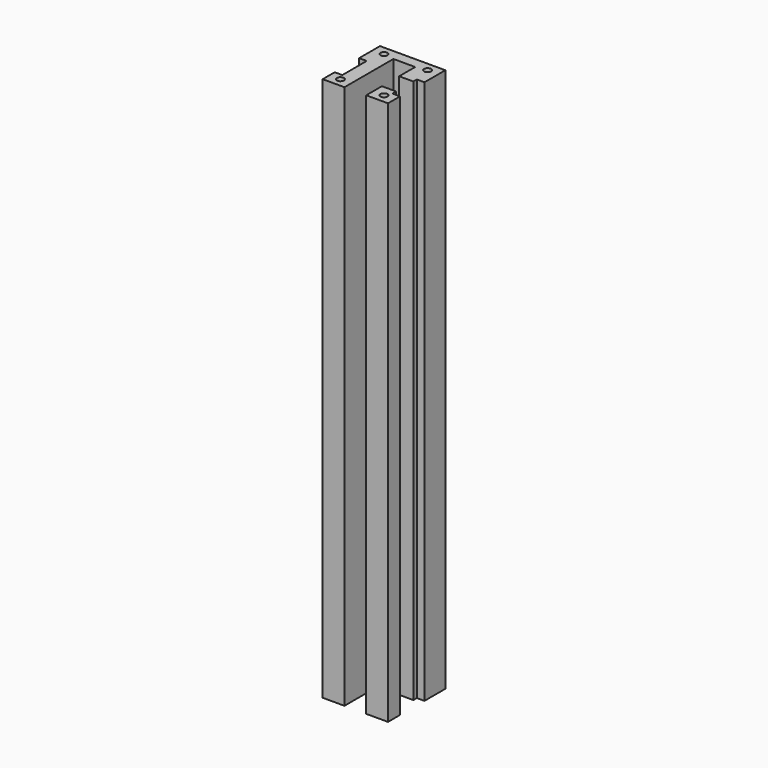
from build123d import *

# Parameters (mm, degrees)
F1_DEPTH   = 250
F3_D       = 3.2
F3_DEPTH   = 20
F3_TIP     = 0.9613769904
F3_2_D     = 3.2
F3_2_DEPTH = 20
F3_2_TIP   = 0.9613769904


with BuildPart() as f1:
    # F0 (on Top) → F1 (new body)
    with BuildSketch(Plane.XY):
        Polygon((5, 2.45), (11.5, 2.45), (11.5, 4.45), (15, 4.45), (15, 16.45), (-15, 16.45), (-15, 4.45), (-11.5, 4.45), (-11.5, -9.55), (-15, -9.55), (-15, -16.45), (-5, -16.45), (-5, 11.65), (5, 11.65), align=None)
    extrude(amount=F1_DEPTH)

    # F3
    with Locations(Plane.XY.offset(250)):
        with Locations((-10, 12.5), (10, 12.5), (10, -12.5), (-10, -12.5)):
            Hole(F3_D / 2, depth=F3_DEPTH)
            with Locations((0, 0, -(F3_DEPTH + F3_TIP / 2))):  # 118° drill point
                Cone(0, F3_D / 2, F3_TIP, mode=Mode.SUBTRACT)


with BuildPart() as f1b:
    # F0 (on Top) → F1, piece 2 (new body)
    with BuildSketch(Plane.XY):
        Polygon((11.5, -7.45), (5, -7.45), (5, -16.45), (15, -16.45), (15, -9.55), (11.5, -9.55), align=None)
    extrude(amount=F1_DEPTH)

    # F3#2
    with Locations(Plane.XY.offset(250)):
        with Locations((-10, 12.5), (10, 12.5), (10, -12.5), (-10, -12.5)):
            Hole(F3_2_D / 2, depth=F3_2_DEPTH)
            with Locations((0, 0, -(F3_2_DEPTH + F3_2_TIP / 2))):  # 118° drill point
                Cone(0, F3_2_D / 2, F3_2_TIP, mode=Mode.SUBTRACT)


solid = Compound([f1.part, f1b.part])
